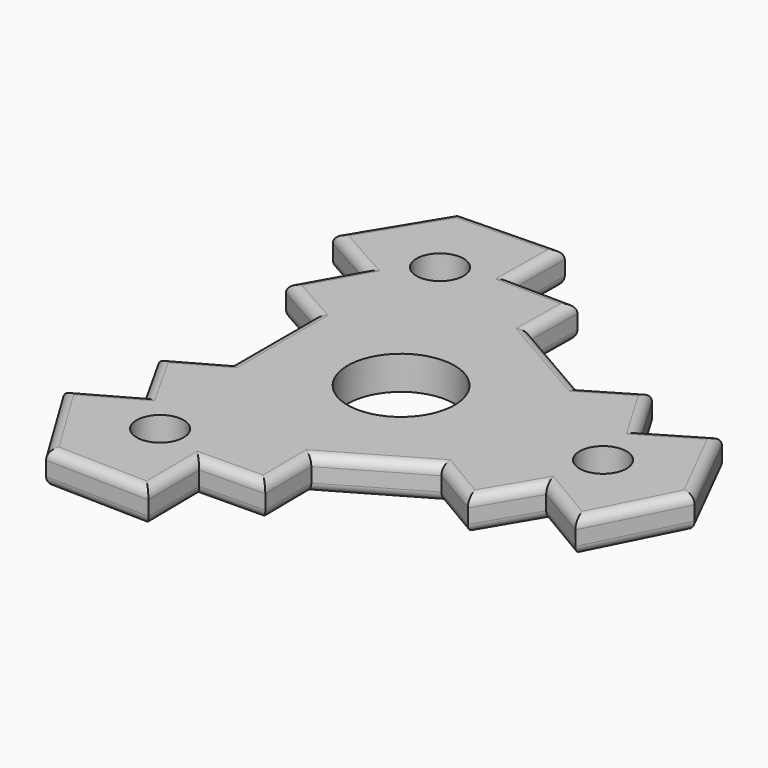
from build123d import *

# Parameters (mm, degrees)
F0_R     = 4.9
F0_R_2   = 17.5
F0_R_3   = 11.15
F1_DEPTH = 7
F2_R     = 2


with BuildPart() as f1:
    # F0 (on Top) → F1 (new body)
    with BuildSketch(Plane.XY):
        Polygon((22.643075, 17.802371), (4.095768, 28.510664), (4.234027, 40.684762), (-9.416056, 40.839784), (-9.263652, 54.259394), (-31.028777, 53.743419), (-42.358188, 35.152255), (-30.660262, 28.574436), (-37.351051, 16.675606), (-26.738843, 10.708293), (-26.738843, -10.708293), (-37.351051, -16.675606), (-30.660262, -28.574436), (-42.358188, -35.152255), (-31.028777, -53.743419), (-9.263652, -54.259394), (-9.416056, -40.839784), (4.234027, -40.684762), (4.095768, -28.510664), (22.643075, -17.802371), (33.117024, -24.009156), (40.076318, -12.265348), (51.62184, -19.107139), (61.241437, 0), (51.62184, 19.107139), (40.076318, 12.265348), (33.117024, 24.009156), align=None)
        with Locations((-21.059453, -36.476043)):
            Circle(F0_R, mode=Mode.SUBTRACT)
        Circle(F0_R_2, mode=Mode.SUBTRACT)
        with Locations((42.118907, 0)):
            Circle(F0_R, mode=Mode.SUBTRACT)
        with Locations((-21.059453, 36.476043)):
            Circle(F0_R, mode=Mode.SUBTRACT)
        Circle(F0_R_2)
        Circle(F0_R_3, mode=Mode.SUBTRACT)
    extrude(amount=F1_DEPTH)

    # F2
    f2_edges = [f1.edges().sort_by_distance(p)[0] for p in [
        (13.369421, -23.156517, 7),
        (27.88005, -20.905763, 7),
        (36.596671, -18.137252, 7),
        (45.849079, -15.686243, 7),
        (56.431638, -9.553569, 7),
        (56.431638, 9.553569, 7),
        (45.849079, 15.686243, 7),
        (36.596671, 18.137252, 7),
        (27.88005, 20.905763, 7),
        (13.369421, 23.156517, 7),
        (4.164897, 34.597713, 7),
        (-2.591015, 40.762273, 7),
        (-9.339854, 47.549589, 7),
        (-36.693482, 44.447837, 7),
        (-20.146215, 54.001407, 7),
        (-36.509225, 31.863346, 7),
        (-34.005657, 22.625021, 7),
        (-32.044947, 13.69195, 7),
        (-26.738843, 0, 7),
        (-32.044947, -13.69195, 7),
        (-34.005657, -22.625021, 7),
        (-36.509225, -31.863346, 7),
        (-36.693482, -44.447837, 7),
        (-20.146215, -54.001407, 7),
        (-2.591015, -40.762273, 7),
        (4.164897, -34.597713, 7),
        (-9.339854, -47.549589, 7),
        (-20.146215, -54.001407, 0),
        (-36.693482, -44.447837, 0),
        (-9.339854, -47.549589, 0),
        (-2.591015, -40.762273, 0),
        (4.164897, -34.597713, 0),
        (13.369421, -23.156517, 0),
        (27.88005, -20.905763, 0),
        (36.596671, -18.137252, 0),
        (45.849079, -15.686243, 0),
        (56.431638, -9.553569, 0),
        (56.431638, 9.553569, 0),
        (45.849079, 15.686243, 0),
        (36.596671, 18.137252, 0),
        (13.369421, 23.156517, 0),
        (4.164897, 34.597713, 0),
        (-9.339854, 47.549589, 0),
        (-2.591015, 40.762273, 0),
        (-20.146215, 54.001407, 0),
        (-36.509225, -31.863346, 0),
        (-34.005657, -22.625021, 0),
        (-32.044947, -13.69195, 0),
        (-26.738843, 0, 0),
        (-32.044947, 13.69195, 0),
        (-34.005657, 22.625021, 0),
        (-36.509225, 31.863346, 0),
        (-36.693482, 44.447837, 0),
    ]]
    fillet(f2_edges, radius=F2_R)


solid = f1.part
